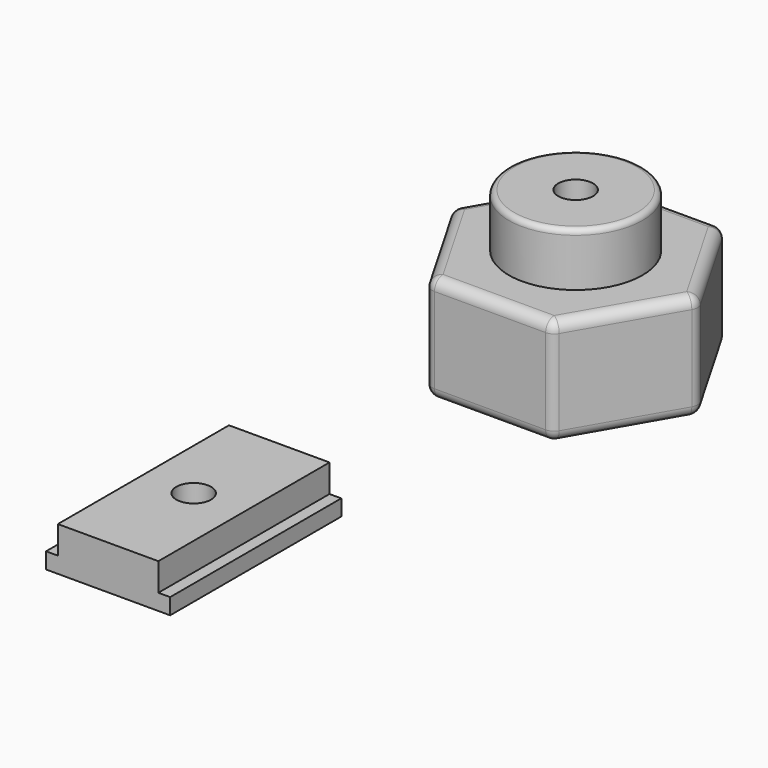
from build123d import *

# Parameters (mm, degrees)
F1_DEPTH = 40
F3_DEPTH = 4
F4_D     = 6.5
F5_R     = 12.5
F6_DEPTH = 20
F7_DEPTH = 30
F8_DEPTH = 20
F9_D     = 6.5
F10_R    = 2
F11_R    = 1


with BuildPart() as f1:
    # F0 (on Front) → F1 (new body)
    with BuildSketch(Plane.XZ):
        Polygon((-9.9840804588, -0.389425854), (-9.9840804588, -3.389425854), (13.2159195412, -3.389425854), (13.2159195412, -0.389425854), (11.0159195412, -0.389425854), (11.0159195412, 4.810574146), (-7.7840804588, 4.810574146), (-7.7840804588, -0.389425854), align=None)
    extrude(amount=F1_DEPTH)

    # F2 (on face) → F3 (cut)
    with BuildSketch(Plane(origin=(0, 0, -3.389425854), x_dir=(1, 0, 0), z_dir=(0, 0, -1))):
        Polygon((4.1245149324, 24.3251644675), (1.6159195412, 20), (4.1245149324, 15.6748355325), (6.6159195412, 17.1132486541), (6.6159195412, 22.8867513459), align=None)
        Polygon((1.6159195412, 25.7735026919), (-0.89267585, 24.3251644675), (1.6159195412, 20), (4.1245149324, 24.3251644675), align=None)
        Polygon((1.6159195412, 20), (-0.89267585, 24.3251644675), (-3.3840804588, 22.8867513459), (-3.3840804588, 17.1132486541), (-0.89267585, 15.6748355325), align=None)
        Polygon((4.1245149324, 15.6748355325), (1.6159195412, 20), (-0.89267585, 15.6748355325), (1.6159195412, 14.2264973081), align=None)
    extrude(amount=-F3_DEPTH, mode=Mode.SUBTRACT)

    # F4 (through all)
    with Locations(Plane(origin=(0, 0, -3.389425854), x_dir=(1, 0, 0), z_dir=(0, 0, -1))):
        with Locations((1.6159195412, 20)):
            Hole(F4_D / 2)


with BuildPart() as f6:
    # F5 (on Top) → F6 (new body)
    with BuildSketch(Plane.XY):
        Polygon((3.9052696689, 31.9969910383), (26.9992804365, 31.9969910383), (38.5462858203, 51.9969910383), (26.9992804365, 71.9969910383), (3.9052696689, 71.9969910383), (-7.6417357149, 51.9969910383), align=None)
        with Locations((15.4522750527, 51.9969910383)):
            Circle(F5_R, mode=Mode.SUBTRACT)
    extrude(amount=F6_DEPTH)

    # F5 (on Top) → F7 (join)
    with BuildSketch(Plane.XY):
        with Locations((15.4522750527, 51.9969910383)):
            Circle(F5_R)
        Polygon((21.2257777446, 51.9969910383), (18.3390263986, 46.9969910383), (12.5655237067, 46.9969910383), (9.6787723608, 51.9969910383), (12.5655237067, 56.9969910383), (18.3390263986, 56.9969910383), align=None, mode=Mode.SUBTRACT)
        Polygon((12.5655237067, 46.9969910383), (18.3390263986, 46.9969910383), (21.2257777446, 51.9969910383), (18.3390263986, 56.9969910383), (12.5655237067, 56.9969910383), (9.6787723608, 51.9969910383), align=None)
    extrude(amount=F7_DEPTH)

    # F5 (on Top) → F8 (cut)
    with BuildSketch(Plane.XY):
        Polygon((12.5655237067, 46.9969910383), (18.3390263986, 46.9969910383), (21.2257777446, 51.9969910383), (18.3390263986, 56.9969910383), (12.5655237067, 56.9969910383), (9.6787723608, 51.9969910383), align=None)
    extrude(amount=F8_DEPTH, mode=Mode.SUBTRACT)

    # F9 (through all)
    with Locations(Plane(origin=(0, 0, 0), x_dir=(1, 0, 0), z_dir=(0, 0, -1))):
        with Locations((15.4522750527, -51.9969910383)):
            Hole(F9_D / 2)

    # F10
    f10_edges = [f6.edges().sort_by_distance(p)[0] for p in [
        (3.90527, 71.996991, 10),
        (26.99928, 71.996991, 10),
        (15.452275, 71.996991, 0),
        (15.452275, 71.996991, 20),
        (38.546286, 51.996991, 10),
        (32.772783, 61.996991, 0),
        (32.772783, 61.996991, 20),
        (-7.641736, 51.996991, 10),
        (-1.868233, 61.996991, 0),
        (-1.868233, 61.996991, 20),
        (26.99928, 31.996991, 10),
        (32.772783, 41.996991, 0),
        (32.772783, 41.996991, 20),
        (3.90527, 31.996991, 10),
        (15.452275, 31.996991, 0),
        (15.452275, 31.996991, 20),
        (-1.868233, 41.996991, 0),
        (-1.868233, 41.996991, 20),
    ]]
    fillet(f10_edges, radius=F10_R)

    # F11
    f11_edges = [f6.edges().sort_by_distance(p)[0] for p in [
        (2.952275, 51.996991, 30),
        (15.452275, 46.996991, 0),
        (11.122148, 49.496991, 0),
        (11.122148, 54.496991, 0),
        (15.452275, 56.996991, 0),
        (19.782402, 54.496991, 0),
        (19.782402, 49.496991, 0),
    ]]
    fillet(f11_edges, radius=F11_R)


solid = Compound([f1.part, f6.part])
